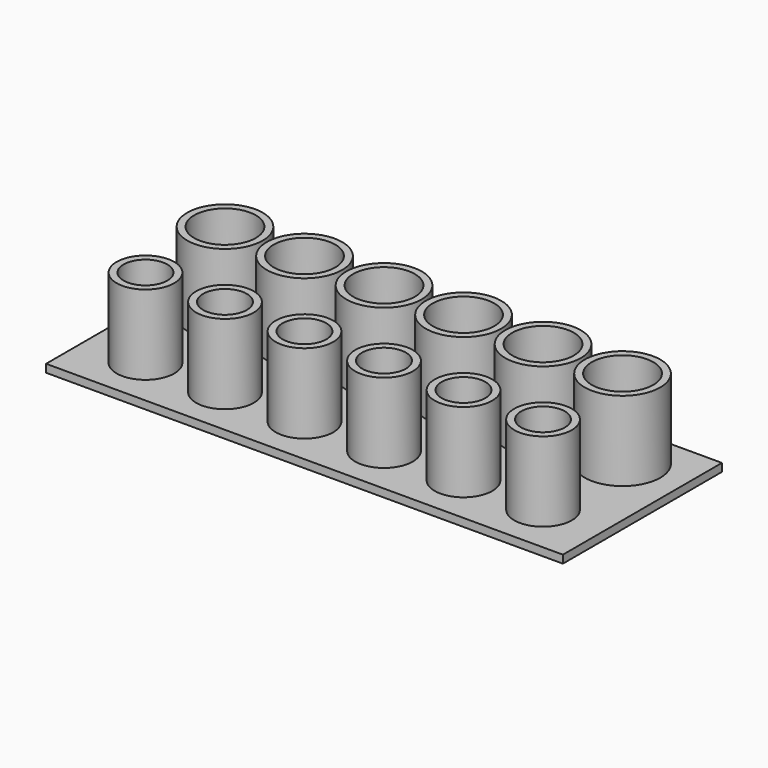
from build123d import *

# Parameters (mm, degrees)
SKETCH_W      = 130
SKETCH_H      = 50
PAD_DEPTH     = 2
SKETCH001_R   = 9.5
SKETCH001_R_2 = 7.75
SKETCH001_R_3 = 7.25
SKETCH001_R_4 = 5.5
PAD001_DEPTH  = 20


with BuildPart() as part:
    # Sketch → Pad (new body)
    with BuildSketch(Plane.XY):
        Rectangle(SKETCH_W, SKETCH_H)
    extrude(amount=PAD_DEPTH)

    # Sketch001 (on Face6 of Pad) → Pad001 (join)
    with BuildSketch(Plane.XY.offset(2)):
        with Locations((-50, 12.5)):
            Circle(SKETCH001_R)
        with Locations((-50, 12.5)):
            Circle(SKETCH001_R_2, mode=Mode.SUBTRACT)
        with Locations((-30, 12.5)):
            Circle(SKETCH001_R)
        with Locations((-30, 12.5)):
            Circle(SKETCH001_R_2, mode=Mode.SUBTRACT)
        with Locations((-10, 12.5)):
            Circle(SKETCH001_R)
        with Locations((-10, 12.5)):
            Circle(SKETCH001_R_2, mode=Mode.SUBTRACT)
        with Locations((10, 12.5)):
            Circle(SKETCH001_R)
        with Locations((10, 12.5)):
            Circle(SKETCH001_R_2, mode=Mode.SUBTRACT)
        with Locations((30, 12.5)):
            Circle(SKETCH001_R)
        with Locations((30, 12.5)):
            Circle(SKETCH001_R_2, mode=Mode.SUBTRACT)
        with Locations((50, 12.5)):
            Circle(SKETCH001_R)
        with Locations((50, 12.5)):
            Circle(SKETCH001_R_2, mode=Mode.SUBTRACT)
        with Locations((-50, -12.5)):
            Circle(SKETCH001_R_3)
        with Locations((-50, -12.5)):
            Circle(SKETCH001_R_4, mode=Mode.SUBTRACT)
        with Locations((-30, -12.5)):
            Circle(SKETCH001_R_3)
        with Locations((-30, -12.5)):
            Circle(SKETCH001_R_4, mode=Mode.SUBTRACT)
        with Locations((-10, -12.5)):
            Circle(SKETCH001_R_3)
        with Locations((-10, -12.5)):
            Circle(SKETCH001_R_4, mode=Mode.SUBTRACT)
        with Locations((10, -12.5)):
            Circle(SKETCH001_R_3)
        with Locations((10, -12.5)):
            Circle(SKETCH001_R_4, mode=Mode.SUBTRACT)
        with Locations((30, -12.5)):
            Circle(SKETCH001_R_3)
        with Locations((30, -12.5)):
            Circle(SKETCH001_R_4, mode=Mode.SUBTRACT)
        with Locations((50, -12.5)):
            Circle(SKETCH001_R_3)
        with Locations((50, -12.5)):
            Circle(SKETCH001_R_4, mode=Mode.SUBTRACT)
    extrude(amount=PAD001_DEPTH)


solid = part.part
